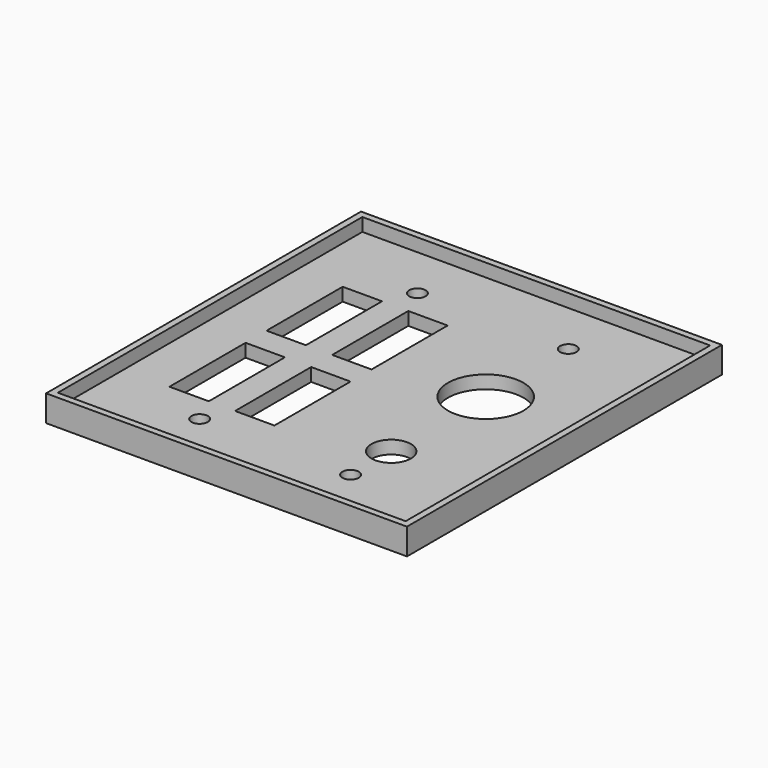
from build123d import *

# Parameters (mm, degrees)
SKETCH_W        = 110
SKETCH_H        = 120
SKETCH_R        = 2.5
PAD_DEPTH       = 8
SKETCH001_W     = 106
SKETCH001_H     = 116
POCKET_DEPTH    = 4
SKETCH002_R     = 11.5
SKETCH002_R_2   = 6
SKETCH002_W     = 12
SKETCH002_H     = 29
POCKET001_DEPTH = 8.001


with BuildPart() as part:
    # Sketch → Pad (new body)
    with BuildSketch(Plane.XY):
        with Locations((55, 60)):
            Rectangle(SKETCH_W, SKETCH_H)
        with Locations((32, 101.5)):
            Circle(SKETCH_R, mode=Mode.SUBTRACT)
        with Locations((78, 101.5)):
            Circle(SKETCH_R, mode=Mode.SUBTRACT)
        with Locations((32, 18.5)):
            Circle(SKETCH_R, mode=Mode.SUBTRACT)
        with Locations((78, 18.5)):
            Circle(SKETCH_R, mode=Mode.SUBTRACT)
    extrude(amount=PAD_DEPTH)

    # Sketch001 → Pocket (cut)
    with BuildSketch(Plane.XY.offset(8)):
        with Locations((55, 60)):
            Rectangle(SKETCH001_W, SKETCH001_H)
    extrude(amount=-POCKET_DEPTH, mode=Mode.SUBTRACT)

    # Sketch002 → Pocket001 (cut, through all)
    with BuildSketch(Plane(origin=(0, 0, 0), x_dir=(1, 0, 0), z_dir=(0, 0, -1))):
        with Locations((78, -70)):
            Circle(SKETCH002_R)
        with Locations((78, -34)):
            Circle(SKETCH002_R_2)
        with Locations((22, -41.5)):
            Rectangle(SKETCH002_W, SKETCH002_H)
        with Locations((42, -41.5)):
            Rectangle(SKETCH002_W, SKETCH002_H)
        with Locations((22, -78.5)):
            Rectangle(SKETCH002_W, SKETCH002_H)
        with Locations((42, -78.5)):
            Rectangle(SKETCH002_W, SKETCH002_H)
    extrude(amount=-POCKET001_DEPTH, mode=Mode.SUBTRACT)


solid = part.part
